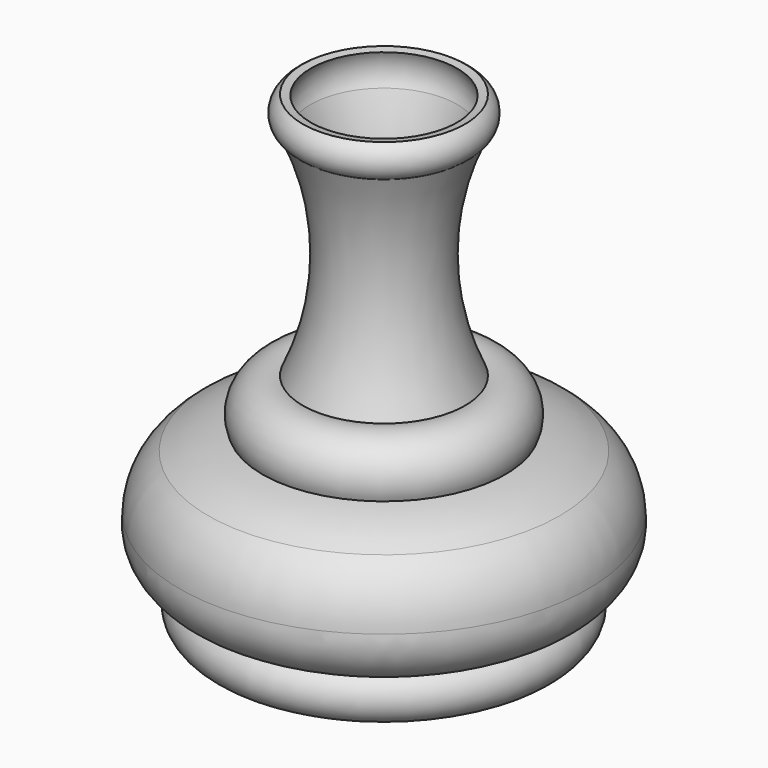
from build123d import *


with BuildPart() as f1:
    # F0 (on Front) → F1 (revolve)
    with BuildSketch(Plane.XZ):
        with BuildLine():
            ThreePointArc((-38.082767, -64.663023), (-19.038998, -64.732237), (0, -65.164112))
            Line((0, -65.164112), (0, -60.904853))
            Line((0, -60.904853), (-38.082767, -60.904853))
            ThreePointArc((-38.082767, -60.904853), (-47.714934, -56.027405), (-57.536453, -51.543447))
            ThreePointArc((-57.536453, -51.543447), (-60.32168, -37.586047), (-53.166594, -25.282744))
            ThreePointArc((-53.166594, -25.282744), (-42.27415, -24.695092), (-34.022458, -17.560652))
            ThreePointArc((-34.022458, -17.560652), (-32.639284, -7.154644), (-22.345156, -5.098166))
            ThreePointArc((-22.345156, -5.098166), (-15.739079, 28.757716), (-22.345156, 62.613599))
            ThreePointArc((-22.345156, 62.613599), (-23.619909, 67.438683), (-22.345156, 72.263768))
            Line((-22.345156, 72.263768), (-24.803909, 72.635375))
            ThreePointArc((-24.803909, 72.635375), (-27.594342, 67.624487), (-24.803909, 62.613599))
            ThreePointArc((-24.803909, 62.613599), (-17.582918, 29.792265), (-24.803909, -3.029068))
            ThreePointArc((-24.803909, -3.029068), (-35.476793, -6.463953), (-37.080593, -17.560652))
            ThreePointArc((-37.080593, -17.560652), (-45.648564, -19.581037), (-53.616531, -23.323175))
            ThreePointArc((-53.616531, -23.323175), (-59.93498, -30.706159), (-62.385589, -40.109657))
            ThreePointArc((-62.385589, -40.109657), (-59.378428, -51.543447), (-49.106728, -57.397228))
            ThreePointArc((-49.106728, -57.397228), (-49.664056, -70.238728), (-38.082767, -64.663023))
        make_face()
    revolve(axis=Axis((0, 0, -63.034482), (0, 0, -1)))


solid = f1.part
